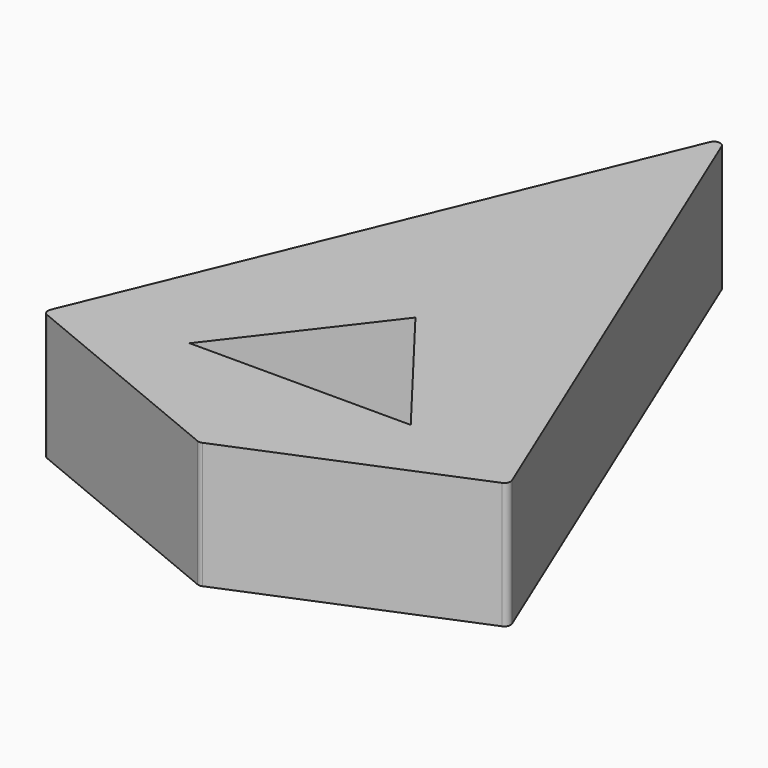
from build123d import *

# Parameters (mm, degrees)
F1_DEPTH = 25.4
F2_R     = 1.27


with BuildPart() as f1:
    # F0 (on Top) → F1 (new body)
    with BuildSketch(Plane.XY):
        Polygon((46.93308, -35.219307), (0, 78.087172), (-46.93308, -35.219307), (0, -54.659625), align=None)
        Polygon((22.242147, -29.259625), (-22.242147, -29.259625), (0, -0.273095), align=None, mode=Mode.SUBTRACT)
    extrude(amount=F1_DEPTH)

    # F2
    f2_edges = [f1.edges().sort_by_distance(p)[0] for p in [
        (0, -54.659625, 12.7),
        (46.93308, -35.219307, 12.7),
        (0, 78.087172, 12.7),
        (-46.93308, -35.219307, 12.7),
    ]]
    fillet(f2_edges, radius=F2_R)


solid = f1.part
